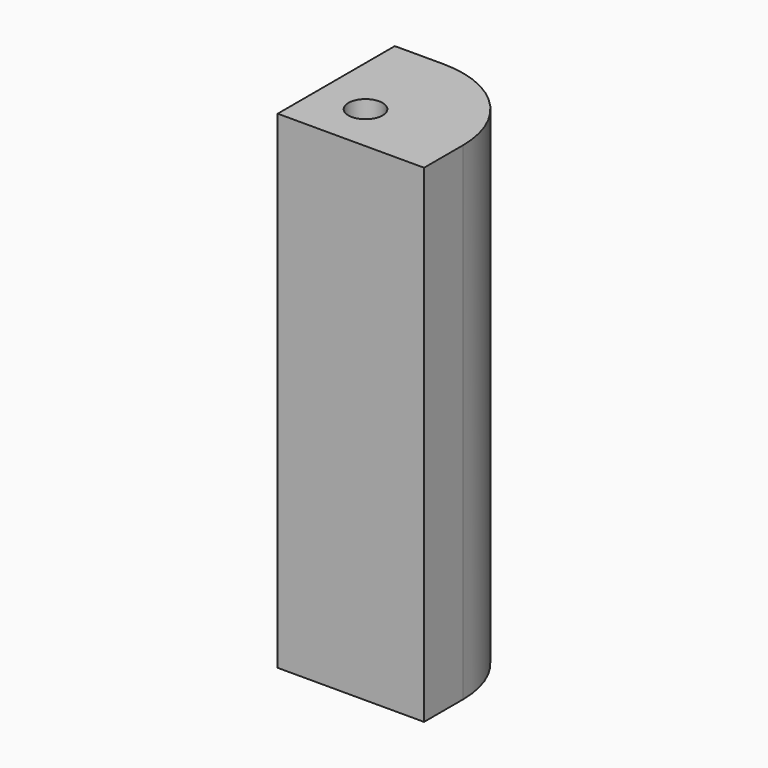
from build123d import *

# Parameters (mm, degrees)
F0_R      = 1.75
F1_DEPTH  = 5
F3_DEPTH  = 3
F5_DEPTH  = 3
F7_DEPTH  = 17
F8_R      = 1.75
F9_DEPTH  = 17
F10_R     = 1.75
F11_DEPTH = 50


with BuildPart() as f1:
    # F0 (on Top) → F1 (new body, symmetric)
    with BuildSketch(Plane.XY):
        with BuildLine():
            ThreePointArc((7.5, -2.5), (4.571068, 4.571068), (-2.5, 7.5))
            Line((-2.5, 7.5), (-7.5, 7.5))
            Line((-7.5, 7.5), (-7.5, -7.5))
            Line((-7.5, -7.5), (7.5, -7.5))
            Line((7.5, -7.5), (7.5, -2.5))
        make_face()
        with Locations((-2.5, -2.5)):
            Circle(F0_R, mode=Mode.SUBTRACT)
    extrude(amount=F1_DEPTH, both=True)

    # F2 (on face) → F3 (join)
    with BuildSketch(Plane.XY.offset(5)):
        with BuildLine():
            Line((-7.5, 0.6), (-4.289786, 0.6))
            Line((-4.289786, 0.6), (-0.710214, 0.6))
            Line((-0.710214, 0.6), (1.079572, -2.5))
            Line((1.079572, -2.5), (-0.710214, -5.6))
            Line((-0.710214, -5.6), (-4.289786, -5.6))
            Line((-4.289786, -5.6), (-7.5, -5.6))
            Line((-7.5, -5.6), (-7.5, -7.5))
            Line((-7.5, -7.5), (7.5, -7.5))
            Line((7.5, -7.5), (7.5, -2.5))
            ThreePointArc((7.5, -2.5), (4.571068, 4.571068), (-2.5, 7.5))
            Line((-2.5, 7.5), (-7.5, 7.5))
            Line((-7.5, 7.5), (-7.5, 0.6))
        make_face()
    extrude(amount=F3_DEPTH)

    # F4 (on face) → F5 (join)
    with BuildSketch(Plane(origin=(0, 0, -5), x_dir=(1, 0, 0), z_dir=(0, 0, -1))):
        with BuildLine():
            Line((1.079572, 2.5), (-0.710214, -0.6))
            Line((-0.710214, -0.6), (-4.289786, -0.6))
            Line((-4.289786, -0.6), (-7.5, -0.6))
            Line((-7.5, -0.6), (-7.5, -7.5))
            Line((-7.5, -7.5), (-2.5, -7.5))
            ThreePointArc((-2.5, -7.5), (4.571068, -4.571068), (7.5, 2.5))
            Line((7.5, 2.5), (7.5, 7.5))
            Line((7.5, 7.5), (-7.5, 7.5))
            Line((-7.5, 7.5), (-7.5, 5.6))
            Line((-7.5, 5.6), (-4.289786, 5.6))
            Line((-4.289786, 5.6), (-0.710214, 5.6))
            Line((-0.710214, 5.6), (1.079572, 2.5))
        make_face()
    extrude(amount=F5_DEPTH)

    # F6 (on face) → F7 (join)
    with BuildSketch(Plane.XY.offset(8)):
        with BuildLine():
            Line((-7.5, 7.5), (-7.5, -7.5))
            Line((-7.5, -7.5), (7.5, -7.5))
            Line((7.5, -7.5), (7.5, -2.5))
            ThreePointArc((7.5, -2.5), (4.571068, 4.571068), (-2.5, 7.5))
            Line((-2.5, 7.5), (-7.5, 7.5))
        make_face()
    extrude(amount=F7_DEPTH)

    # F8 (on face) → F9 (join)
    with BuildSketch(Plane(origin=(0, 0, -8), x_dir=(1, 0, 0), z_dir=(0, 0, -1))):
        with BuildLine():
            Line((7.5, 7.5), (-7.5, 7.5))
            Line((-7.5, 7.5), (-7.5, -7.5))
            Line((-7.5, -7.5), (-2.5, -7.5))
            ThreePointArc((-2.5, -7.5), (4.571068, -4.571068), (7.5, 2.5))
            Line((7.5, 2.5), (7.5, 7.5))
        make_face()
        with Locations((-2.5, 2.5)):
            Circle(F8_R, mode=Mode.SUBTRACT)
        with BuildLine():
            Line((7.5, 7.5), (-7.5, 7.5))
            Line((-7.5, 7.5), (-7.5, -7.5))
            Line((-7.5, -7.5), (-2.5, -7.5))
            ThreePointArc((-2.5, -7.5), (4.571068, -4.571068), (7.5, 2.5))
            Line((7.5, 2.5), (7.5, 7.5))
        make_face()
        with Locations((-2.5, 2.5)):
            Circle(F8_R, mode=Mode.SUBTRACT)
    extrude(amount=F9_DEPTH)

    # F10 (on face) → F11 (cut)
    with BuildSketch(Plane.XY.offset(25)):
        with Locations((-2.5, -2.5)):
            Circle(F10_R)
    extrude(amount=-F11_DEPTH, mode=Mode.SUBTRACT)


solid = f1.part
